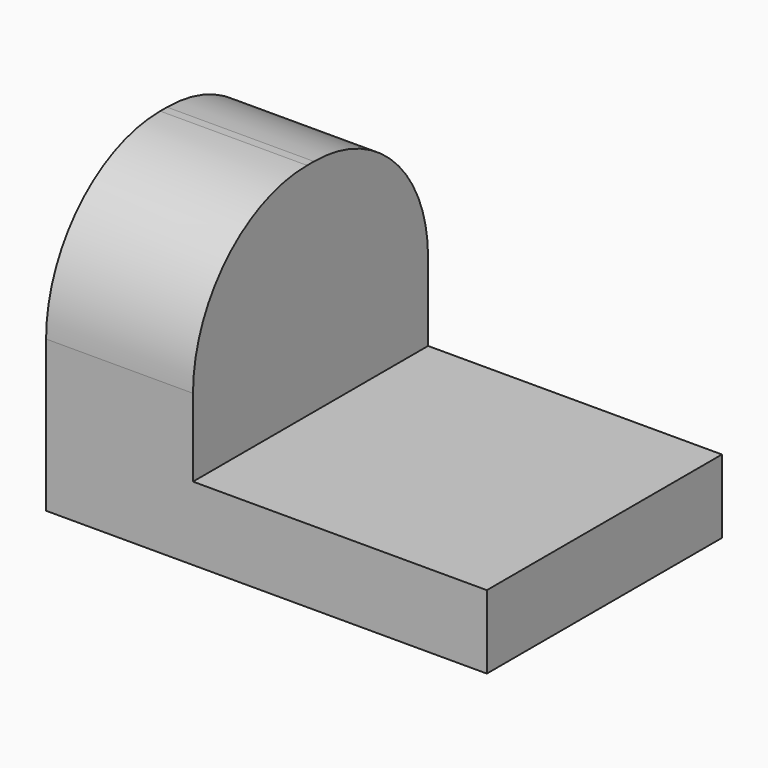
from build123d import *

# Parameters (mm, degrees)
F0_W     = 38.1
F0_H     = 25.4
F1_DEPTH = 12.7
F2_W     = 25.4
F2_H     = 19.05
F3_DEPTH = 12.7
F5_DEPTH = 12.7


with BuildPart() as f1:
    # F0 (on Front) → F1 (new body, symmetric)
    with BuildSketch(Plane.XZ):
        with Locations((19.05, 12.7)):
            Rectangle(F0_W, F0_H)
    extrude(amount=F1_DEPTH, both=True)

    # F2 (on Front) → F3 (cut, symmetric)
    with BuildSketch(Plane.XZ):
        with Locations((25.4, 15.875)):
            Rectangle(F2_W, F2_H)
    extrude(amount=F3_DEPTH, both=True, mode=Mode.SUBTRACT)

    # F4 (on Right) → F5 (cut, symmetric)
    with BuildSketch(Plane.YZ):
        with BuildLine():
            ThreePointArc((-12.7, 13.071217), (-9.088983, 21.788983), (-0.371217, 25.4))
            Line((-0.371217, 25.4), (-12.7, 25.4))
            Line((-12.7, 25.4), (-12.7, 13.071217))
        make_face()
        with BuildLine():
            Line((12.7, 25.4), (0.371217, 25.4))
            ThreePointArc((0.371217, 25.4), (9.088983, 21.788983), (12.7, 13.071217))
            Line((12.7, 13.071217), (12.7, 25.4))
        make_face()
    extrude(amount=F5_DEPTH, both=True, mode=Mode.SUBTRACT)


solid = f1.part
